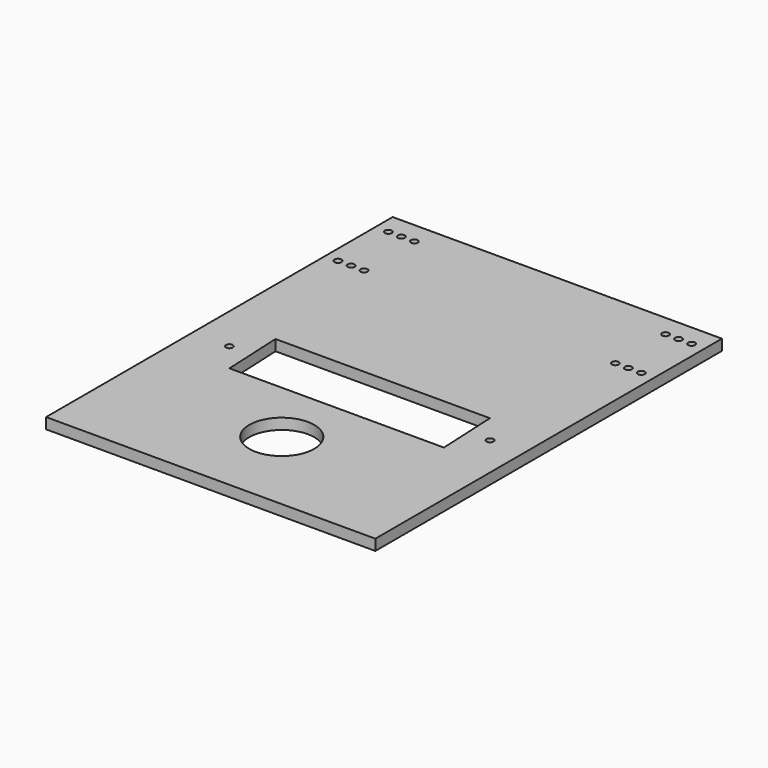
from build123d import *

# Parameters (mm, degrees)
F0_R     = 15
F0_R_2   = 1.665022
F0_R_3   = 1.6
F1_DEPTH = 5
F2_DEPTH = 5


with BuildPart() as f1:
    # F0 (on Top) → F1 (new body)
    with BuildSketch(Plane.XY):
        Polygon((0, 88.027043), (-76, 88.027043), (-76, -111.972957), (76, -111.972957), (76, 88.027043), align=None)
        with Locations((0, -70.972957)):
            Circle(F0_R, mode=Mode.SUBTRACT)
        Polygon((-62.948035, -27.524922), (-49.5, -12.721194), (49.5, -12.721194), (64.303728, -26.169229), (50.855693, -40.972957), (-48.144307, -40.972957), align=None, mode=Mode.SUBTRACT)
        with Locations((-70, 49.027043)):
            Circle(F0_R_2, mode=Mode.SUBTRACT)
        with Locations((-64, 49.027043)):
            Circle(F0_R_3, mode=Mode.SUBTRACT)
        with Locations((-58, 49.027043)):
            Circle(F0_R_3, mode=Mode.SUBTRACT)
        with Locations((-70, 78.027043)):
            Circle(F0_R_3, mode=Mode.SUBTRACT)
        with Locations((-64, 78.027043)):
            Circle(F0_R_3, mode=Mode.SUBTRACT)
        with Locations((-58, 78.027043)):
            Circle(F0_R_3, mode=Mode.SUBTRACT)
        with Locations((58, 49.027043)):
            Circle(F0_R_3, mode=Mode.SUBTRACT)
        with Locations((64, 49.027043)):
            Circle(F0_R_3, mode=Mode.SUBTRACT)
        with Locations((70, 49.027043)):
            Circle(F0_R_3, mode=Mode.SUBTRACT)
        with Locations((58, 78.027043)):
            Circle(F0_R_3, mode=Mode.SUBTRACT)
        with Locations((64, 78.027043)):
            Circle(F0_R_3, mode=Mode.SUBTRACT)
        with Locations((70, 78.027043)):
            Circle(F0_R_3, mode=Mode.SUBTRACT)
    extrude(amount=F1_DEPTH)

    # F0 (on Top) → F2 (join)
    with BuildSketch(Plane.XY):
        Polygon((-48.144307, -40.972957), (-49.5, -12.721194), (-62.948035, -27.524922), align=None)
        with Locations((-58.948035, -27.524922)):
            Circle(F0_R_3, mode=Mode.SUBTRACT)
        Polygon((64.303728, -26.169229), (49.5, -12.721194), (50.855693, -40.972957), align=None)
        with Locations((60.303728, -26.169229)):
            Circle(F0_R_3, mode=Mode.SUBTRACT)
    extrude(amount=F2_DEPTH)


solid = f1.part
